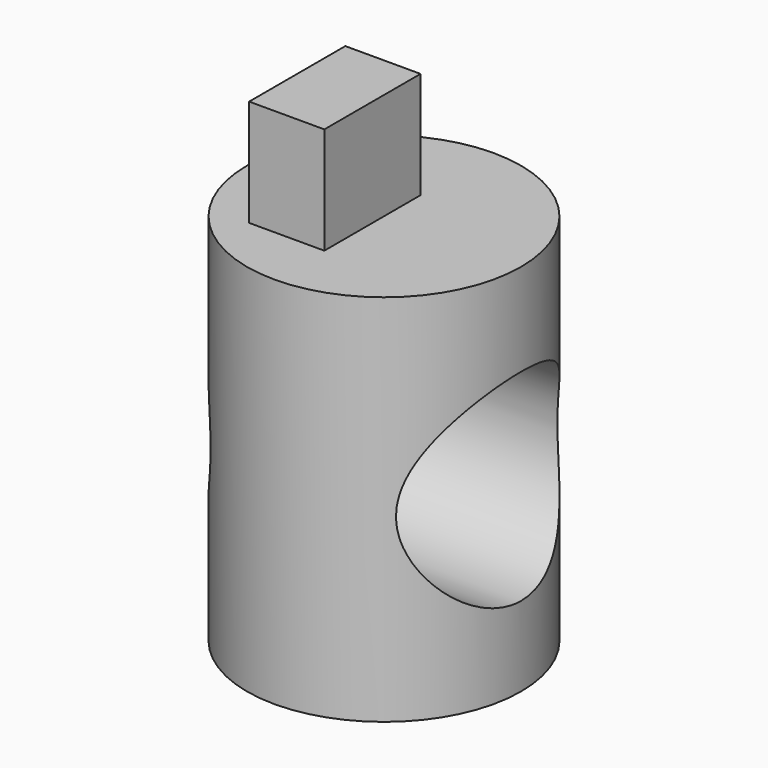
from build123d import *

# Parameters (mm, degrees)
F0_R     = 32.588749
F1_DEPTH = 88.9
F2_W     = 17.885627
F2_H     = 28.591043
F3_DEPTH = 25.4
F4_R     = 23.990527
F5_DEPTH = 42.545


with BuildPart() as f1:
    # F0 (on Top) → F1 (new body)
    with BuildSketch(Plane.XY):
        Circle(F0_R)
    extrude(amount=F1_DEPTH)

    # F2 (on face) → F3 (join)
    with BuildSketch(Plane.XY.offset(88.9)):
        with Locations((-8.942813, -3.438737)):
            Rectangle(F2_W, F2_H)
    extrude(amount=F3_DEPTH)

    # F4 (on Right) → F5 (cut, symmetric)
    with BuildSketch(Plane.YZ):
        with Locations((0, 42.958003)):
            Circle(F4_R)
    extrude(amount=F5_DEPTH, both=True, mode=Mode.SUBTRACT)


solid = f1.part
